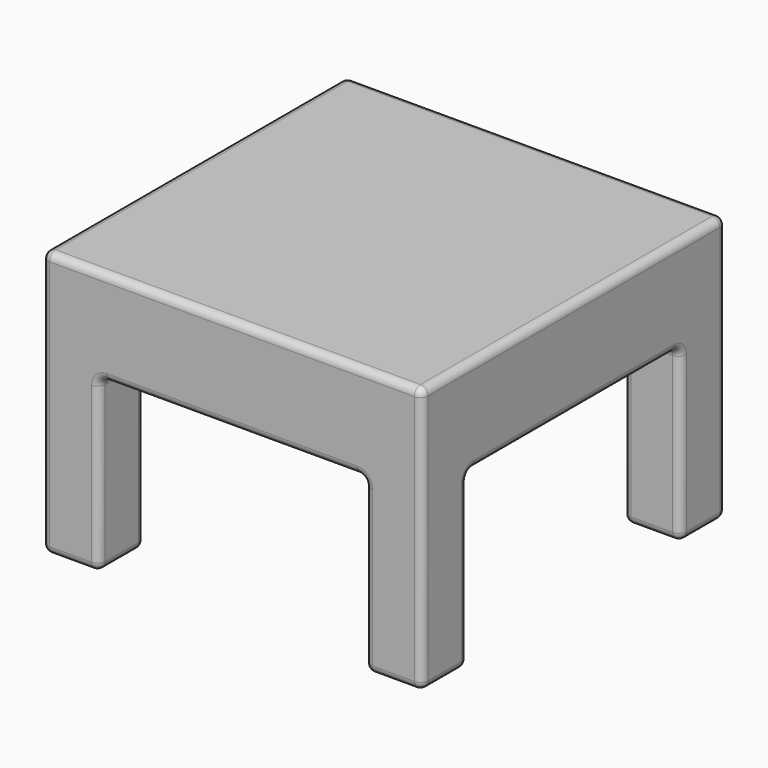
from build123d import *

# Parameters (mm, degrees)
F0_W     = 254
F0_H     = 254
F1_DEPTH = 25.4
F2_W     = 38.1
F2_H     = 38.1
F3_DEPTH = 152.4
F4_W     = 177.8
F4_H     = 19.05
F4_W_2   = 19.05
F4_H_2   = 177.8
F5_DEPTH = 38.1
F6_W     = 6.35
F6_H     = 25.4
F6_W_2   = 25.4
F6_H_2   = 6.35
F7_DEPTH = 6.35
F8_R     = 5.08


with BuildPart() as f1:
    # F0 (on Top) → F1 (new body)
    with BuildSketch(Plane.XY):
        Rectangle(F0_W, F0_H)
    extrude(amount=F1_DEPTH)

    # F2 (on face) → F3 (join)
    with BuildSketch(Plane(origin=(0, 0, 0), x_dir=(1, 0, 0), z_dir=(0, 0, -1))):
        with Locations((-107.95, 107.95)):
            Rectangle(F2_W, F2_H)
        with Locations((107.95, 107.95)):
            Rectangle(F2_W, F2_H)
        with Locations((107.95, -107.95)):
            Rectangle(F2_W, F2_H)
        with Locations((-107.95, -107.95)):
            Rectangle(F2_W, F2_H)
    extrude(amount=F3_DEPTH)

    # F4 (on face) → F5 (join)
    with BuildSketch(Plane(origin=(0, 0, 0), x_dir=(1, 0, 0), z_dir=(0, 0, -1))):
        with Locations((0, 117.475)):
            Rectangle(F4_W, F4_H)
        with Locations((-117.475, 0)):
            Rectangle(F4_W_2, F4_H_2)
        with Locations((117.475, 0)):
            Rectangle(F4_W_2, F4_H_2)
        with Locations((0, -117.475)):
            Rectangle(F4_W, F4_H)
    extrude(amount=F5_DEPTH)

    # F6 (on face) → F7 (join)
    with BuildSketch(Plane(origin=(0, 0, 0), x_dir=(1, 0, 0), z_dir=(0, 0, -1))):
        with Locations((-104.775, 0)):
            Rectangle(F6_W, F6_H)
        with Locations((0, 104.775)):
            Rectangle(F6_W_2, F6_H_2)
        with Locations((104.775, 0)):
            Rectangle(F6_W, F6_H)
        with Locations((0, -104.775)):
            Rectangle(F6_W_2, F6_H_2)
    extrude(amount=F7_DEPTH)

    # F8
    f8_edges = [f1.edges().sort_by_distance(p)[0] for p in [
        (0, -127, 25.4),
        (127, -127, -63.5),
        (107.95, -127, -152.4),
        (88.9, -127, -95.25),
        (0, -127, -38.1),
        (-88.9, -127, -95.25),
        (-107.95, -127, -152.4),
        (-127, -127, -63.5),
        (127, 0, 25.4),
        (127, 127, -63.5),
        (127, 107.95, -152.4),
        (127, 88.9, -95.25),
        (127, 0, -38.1),
        (127, -88.9, -95.25),
        (127, -107.95, -152.4),
        (0, 127, 25.4),
        (-127, 127, -63.5),
        (-107.95, 127, -152.4),
        (-88.9, 127, -95.25),
        (0, 127, -38.1),
        (88.9, 127, -95.25),
        (107.95, 127, -152.4),
        (-127, 0, 25.4),
        (-127, -107.95, -152.4),
        (-127, -88.9, -95.25),
        (-127, 0, -38.1),
        (-127, 88.9, -95.25),
        (-127, 107.95, -152.4),
        (88.9, 98.425, 0),
        (88.9, 107.95, -19.05),
        (88.9, 117.475, -38.1),
        (88.9, 107.95, -152.4),
        (88.9, 88.9, -76.2),
        (-117.475, -88.9, -38.1),
        (-107.95, -88.9, -19.05),
        (-98.425, -88.9, 0),
        (-88.9, -88.9, -76.2),
        (-107.95, -88.9, -152.4),
        (-98.425, 88.9, 0),
        (-107.95, 88.9, -19.05),
        (-117.475, 88.9, -38.1),
        (-107.95, 88.9, -152.4),
        (-88.9, 88.9, -76.2),
        (88.9, -117.475, -38.1),
        (88.9, -107.95, -19.05),
        (88.9, -98.425, 0),
        (88.9, -88.9, -76.2),
        (88.9, -107.95, -152.4),
        (-88.9, -98.425, 0),
        (-88.9, -107.95, -19.05),
        (-88.9, -117.475, -38.1),
        (-88.9, -107.95, -152.4),
        (117.475, 88.9, -38.1),
        (107.95, 88.9, -19.05),
        (98.425, 88.9, 0),
        (107.95, 88.9, -152.4),
        (98.425, -88.9, 0),
        (107.95, -88.9, -19.05),
        (117.475, -88.9, -38.1),
        (107.95, -88.9, -152.4),
        (107.95, 50.8, 0),
        (104.775, 12.7, 0),
        (101.6, 0, 0),
        (104.775, -12.7, 0),
        (107.95, -50.8, 0),
        (50.8, -107.95, 0),
        (12.7, -104.775, 0),
        (0, -101.6, 0),
        (-12.7, -104.775, 0),
        (-50.8, -107.95, 0),
        (-107.95, -50.8, 0),
        (-104.775, -12.7, 0),
        (-101.6, 0, 0),
        (-104.775, 12.7, 0),
        (-107.95, 50.8, 0),
        (-88.9, 98.425, 0),
        (-50.8, 107.95, 0),
        (-12.7, 104.775, 0),
        (0, 101.6, 0),
        (12.7, 104.775, 0),
        (50.8, 107.95, 0),
    ]]
    fillet(f8_edges, radius=F8_R)


solid = f1.part
